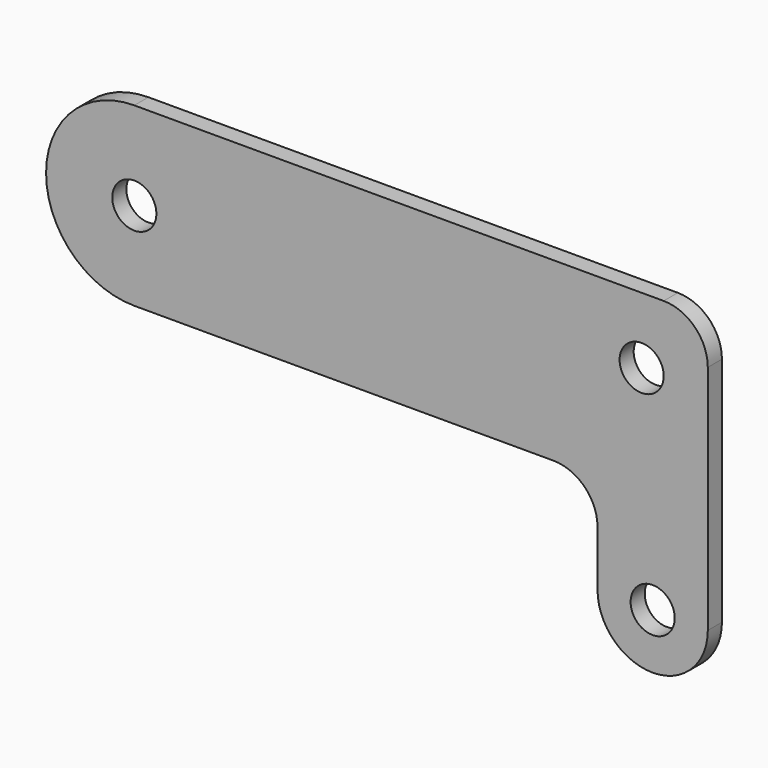
from build123d import *

# Parameters (mm, degrees)
F0_R     = 5
F1_DEPTH = 2


with BuildPart() as f1:
    # F0 (on Front) → F1 (new body, symmetric)
    with BuildSketch(Plane.XZ):
        with BuildLine():
            Line((120, 0), (0, 0))
            ThreePointArc((0, 0), (-20, -20), (0, -40))
            Line((0, -40), (95, -40))
            ThreePointArc((95, -40), (102.0710678119, -42.9289321881), (105, -50))
            Line((105, -50), (105, -62.5))
            ThreePointArc((105, -62.5), (117.5, -75), (130, -62.5))
            Line((130, -62.5), (130, -10))
            ThreePointArc((130, -10), (127.0710678119, -2.9289321881), (120, 0))
        make_face()
        with Locations((117.5, -62.5)):
            Circle(F0_R, mode=Mode.SUBTRACT)
        with Locations((0, -20)):
            Circle(F0_R, mode=Mode.SUBTRACT)
        with Locations((115, -15)):
            Circle(F0_R, mode=Mode.SUBTRACT)
    extrude(amount=F1_DEPTH, both=True)


solid = f1.part
